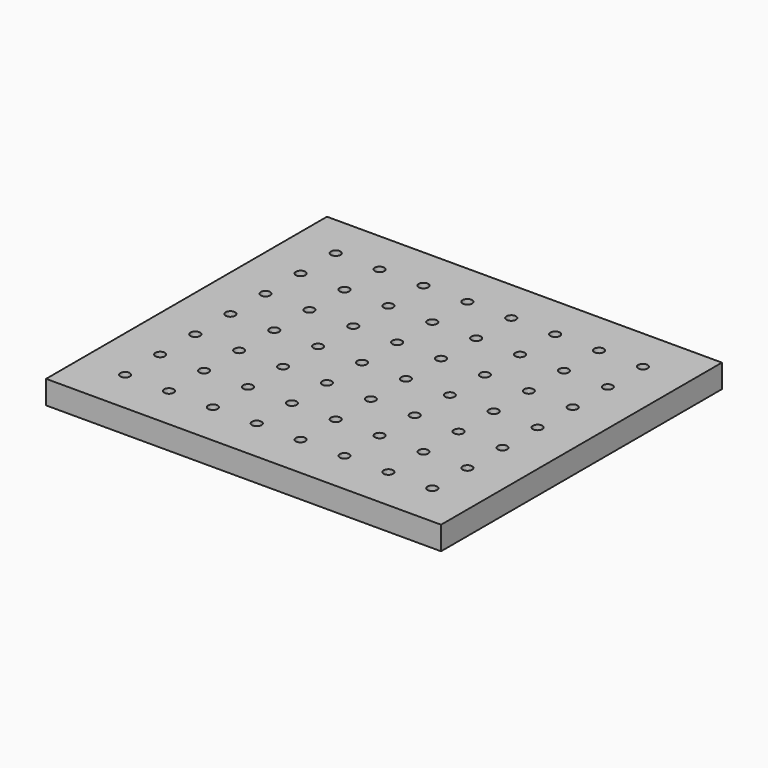
from build123d import *

# Parameters (mm, degrees)
F0_W     = 270
F0_H     = 240
F0_R     = 3.25
F1_DEPTH = 16


with BuildPart() as f1:
    # F0 (on Top) → F1 (new body)
    with BuildSketch(Plane.XY):
        with Locations((95.683728, 82.547896)):
            Rectangle(F0_W, F0_H)
        with Locations((-9.316272, -7.452104)):
            Circle(F0_R, mode=Mode.SUBTRACT)
        with Locations((20.683728, -7.452104)):
            Circle(F0_R, mode=Mode.SUBTRACT)
        with Locations((50.683728, -7.452104)):
            Circle(F0_R, mode=Mode.SUBTRACT)
        with Locations((80.683728, -7.452104)):
            Circle(F0_R, mode=Mode.SUBTRACT)
        with Locations((-9.316272, 22.547896)):
            Circle(F0_R, mode=Mode.SUBTRACT)
        with Locations((20.683728, 22.547896)):
            Circle(F0_R, mode=Mode.SUBTRACT)
        with Locations((-9.316272, 52.547896)):
            Circle(F0_R, mode=Mode.SUBTRACT)
        with Locations((20.683728, 52.547896)):
            Circle(F0_R, mode=Mode.SUBTRACT)
        with Locations((50.683728, 22.547896)):
            Circle(F0_R, mode=Mode.SUBTRACT)
        with Locations((80.683728, 22.547896)):
            Circle(F0_R, mode=Mode.SUBTRACT)
        with Locations((50.683728, 52.547896)):
            Circle(F0_R, mode=Mode.SUBTRACT)
        with Locations((80.683728, 52.547896)):
            Circle(F0_R, mode=Mode.SUBTRACT)
        with Locations((110.683728, -7.452104)):
            Circle(F0_R, mode=Mode.SUBTRACT)
        with Locations((140.683728, -7.452104)):
            Circle(F0_R, mode=Mode.SUBTRACT)
        with Locations((170.683728, -7.452104)):
            Circle(F0_R, mode=Mode.SUBTRACT)
        with Locations((200.683728, -7.452104)):
            Circle(F0_R, mode=Mode.SUBTRACT)
        with Locations((110.683728, 22.547896)):
            Circle(F0_R, mode=Mode.SUBTRACT)
        with Locations((140.683728, 22.547896)):
            Circle(F0_R, mode=Mode.SUBTRACT)
        with Locations((110.683728, 52.547896)):
            Circle(F0_R, mode=Mode.SUBTRACT)
        with Locations((140.683728, 52.547896)):
            Circle(F0_R, mode=Mode.SUBTRACT)
        with Locations((170.683728, 22.547896)):
            Circle(F0_R, mode=Mode.SUBTRACT)
        with Locations((200.683728, 22.547896)):
            Circle(F0_R, mode=Mode.SUBTRACT)
        with Locations((170.683728, 52.547896)):
            Circle(F0_R, mode=Mode.SUBTRACT)
        with Locations((200.683728, 52.547896)):
            Circle(F0_R, mode=Mode.SUBTRACT)
        with Locations((-9.316272, 82.547896)):
            Circle(F0_R, mode=Mode.SUBTRACT)
        with Locations((20.683728, 82.547896)):
            Circle(F0_R, mode=Mode.SUBTRACT)
        with Locations((-9.316272, 112.547896)):
            Circle(F0_R, mode=Mode.SUBTRACT)
        with Locations((20.683728, 112.547896)):
            Circle(F0_R, mode=Mode.SUBTRACT)
        with Locations((50.683728, 82.547896)):
            Circle(F0_R, mode=Mode.SUBTRACT)
        with Locations((80.683728, 82.547896)):
            Circle(F0_R, mode=Mode.SUBTRACT)
        with Locations((50.683728, 112.547896)):
            Circle(F0_R, mode=Mode.SUBTRACT)
        with Locations((80.683728, 112.547896)):
            Circle(F0_R, mode=Mode.SUBTRACT)
        with Locations((-9.316272, 142.547896)):
            Circle(F0_R, mode=Mode.SUBTRACT)
        with Locations((20.683728, 142.547896)):
            Circle(F0_R, mode=Mode.SUBTRACT)
        with Locations((-9.316272, 172.547896)):
            Circle(F0_R, mode=Mode.SUBTRACT)
        with Locations((20.683728, 172.547896)):
            Circle(F0_R, mode=Mode.SUBTRACT)
        with Locations((50.683728, 142.547896)):
            Circle(F0_R, mode=Mode.SUBTRACT)
        with Locations((80.683728, 142.547896)):
            Circle(F0_R, mode=Mode.SUBTRACT)
        with Locations((50.683728, 172.547896)):
            Circle(F0_R, mode=Mode.SUBTRACT)
        with Locations((80.683728, 172.547896)):
            Circle(F0_R, mode=Mode.SUBTRACT)
        with Locations((110.683728, 82.547896)):
            Circle(F0_R, mode=Mode.SUBTRACT)
        with Locations((140.683728, 82.547896)):
            Circle(F0_R, mode=Mode.SUBTRACT)
        with Locations((110.683728, 112.547896)):
            Circle(F0_R, mode=Mode.SUBTRACT)
        with Locations((140.683728, 112.547896)):
            Circle(F0_R, mode=Mode.SUBTRACT)
        with Locations((170.683728, 82.547896)):
            Circle(F0_R, mode=Mode.SUBTRACT)
        with Locations((200.683728, 82.547896)):
            Circle(F0_R, mode=Mode.SUBTRACT)
        with Locations((170.683728, 112.547896)):
            Circle(F0_R, mode=Mode.SUBTRACT)
        with Locations((200.683728, 112.547896)):
            Circle(F0_R, mode=Mode.SUBTRACT)
        with Locations((110.683728, 142.547896)):
            Circle(F0_R, mode=Mode.SUBTRACT)
        with Locations((140.683728, 142.547896)):
            Circle(F0_R, mode=Mode.SUBTRACT)
        with Locations((110.683728, 172.547896)):
            Circle(F0_R, mode=Mode.SUBTRACT)
        with Locations((140.683728, 172.547896)):
            Circle(F0_R, mode=Mode.SUBTRACT)
        with Locations((170.683728, 142.547896)):
            Circle(F0_R, mode=Mode.SUBTRACT)
        with Locations((200.683728, 142.547896)):
            Circle(F0_R, mode=Mode.SUBTRACT)
        with Locations((170.683728, 172.547896)):
            Circle(F0_R, mode=Mode.SUBTRACT)
        with Locations((200.683728, 172.547896)):
            Circle(F0_R, mode=Mode.SUBTRACT)
    extrude(amount=F1_DEPTH)


solid = f1.part
